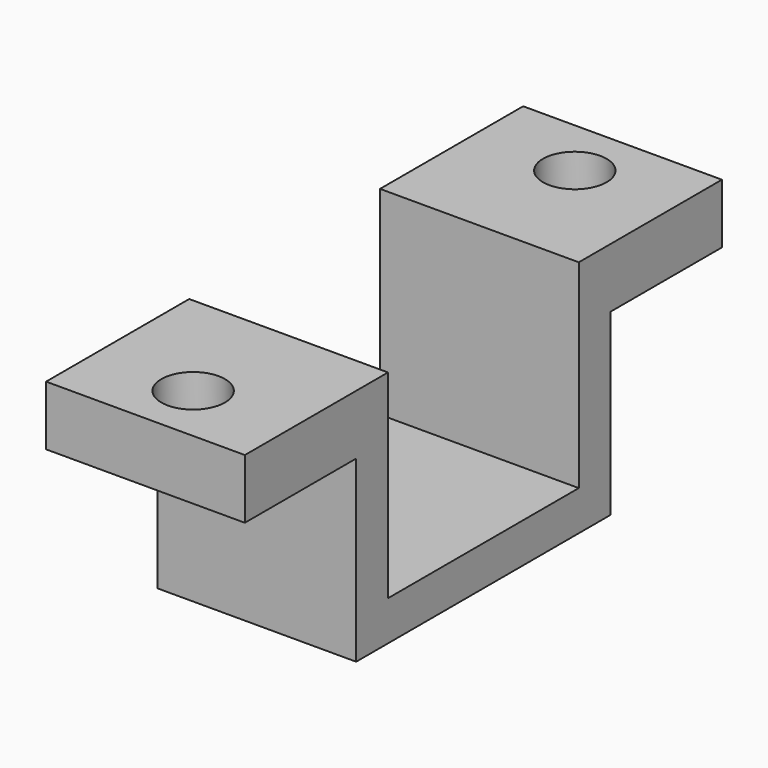
from build123d import *

# Parameters (mm, degrees)
PAD_DEPTH    = 10
SKETCH001_R  = 1.6
POCKET_DEPTH = 3


with BuildPart() as part:
    # Sketch → Pad (new body)
    with BuildSketch(Plane.YZ):
        Polygon((-9, -15), (0, -15), (0, -25), (12, -25), (12, -15), (21, -15), (21, -18), (14, -18), (14, -27), (-2, -27), (-2, -18), (-9, -18), align=None)
    extrude(amount=PAD_DEPTH)

    # Sketch001 (on Face1 of Pad) → Pocket (cut)
    with BuildSketch(Plane(origin=(0, 0, -15), x_dir=(0, -1, 0), z_dir=(0, 0, 1))):
        with Locations((6, 5)):
            Circle(SKETCH001_R)
        with Locations((-18, 5)):
            Circle(SKETCH001_R)
    extrude(amount=-POCKET_DEPTH, mode=Mode.SUBTRACT)


solid = part.part
